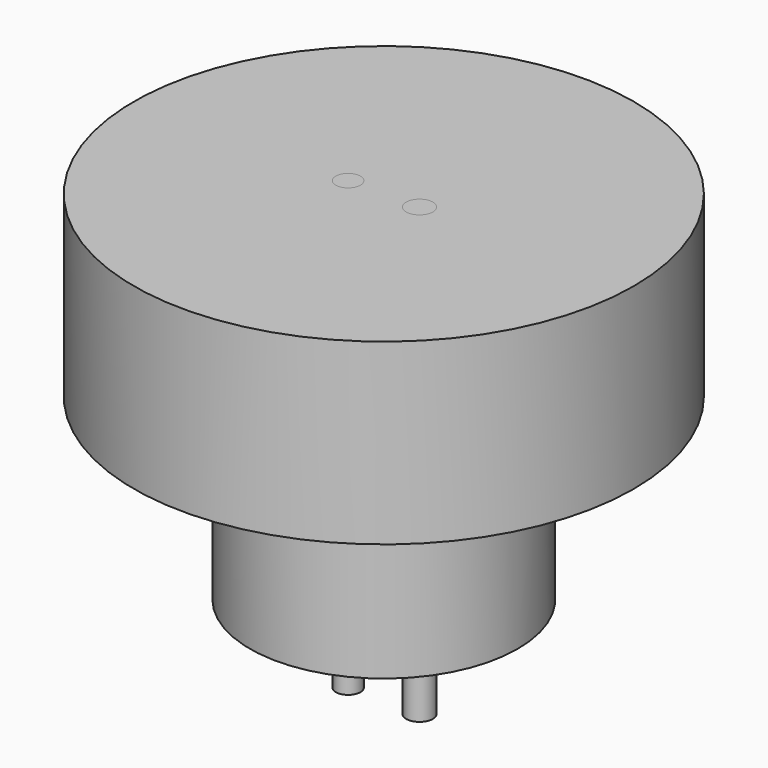
from build123d import *

# Parameters (mm, degrees)
F0_R     = 14
F1_DEPTH = 10
F2_R     = 7.5
F3_DEPTH = 10
F4_R     = 0.690496
F4_R_2   = 0.75
F5_DEPTH = 25
F6_DEPTH = 25


with BuildPart() as f1:
    # F0 (on Top) → F1 (new body)
    with BuildSketch(Plane.XY):
        Circle(F0_R)
    extrude(amount=F1_DEPTH)

    # F2 (on face) → F3 (join)
    with BuildSketch(Plane(origin=(0, 0, 0), x_dir=(1, 0, 0), z_dir=(0, 0, -1))):
        Circle(F2_R)
    extrude(amount=F3_DEPTH)

    # F4 (on face) → F5 (cut)
    with BuildSketch(Plane.XY.offset(10)):
        with Locations((-2, 0)):
            Circle(F4_R)
        with Locations((2, 0)):
            Circle(F4_R_2)
    extrude(amount=-F5_DEPTH, mode=Mode.SUBTRACT)


with BuildPart() as f6:
    # F4 (on face) → F6 (new body)
    with BuildSketch(Plane.XY.offset(10)):
        with Locations((-2, 0)):
            Circle(F4_R)
        with Locations((2, 0)):
            Circle(F4_R_2)
    extrude(amount=-F6_DEPTH)


solid = Compound([f1.part, f6.part])
